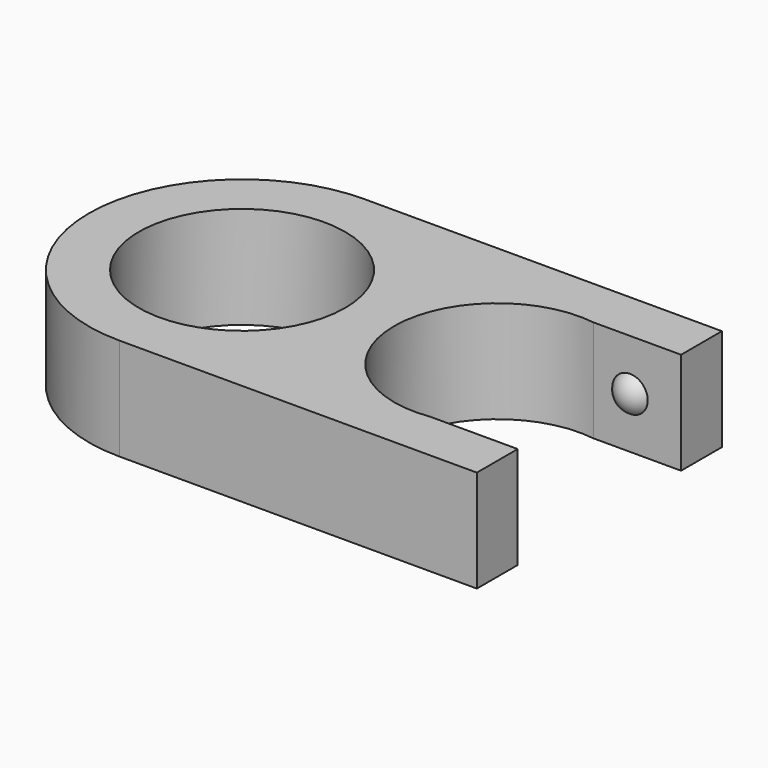
from build123d import *

# Parameters (mm, degrees)
CYLINDER002_R     = 10.1
CYLINDER002_DEPTH = 10
BOX001_W          = 10
BOX001_H          = 20
BOX001_DEPTH      = 10
CYLINDER001_R     = 10.1
CYLINDER001_DEPTH = 10
BOX_W             = 35
BOX_H             = 30
BOX_DEPTH         = 10
CYLINDER_R        = 15
CYLINDER_DEPTH    = 10


with BuildPart() as sphere:
    # Sphere → Sphere (revolve)
    with BuildSketch(Plane(origin=(30, 11, 5), x_dir=(1, 0, 0), z_dir=(0, -1, 0))):
        with BuildLine():
            ThreePointArc((0, -2), (2, 0), (0, 2))
            Line((0, 2), (0, -2))
        make_face()
    revolve(axis=Axis((30, 11, 5), (0, 0, 1)))


with BuildPart() as cylinder002:
    # Cylinder002 → Cylinder002 (new body)
    with BuildSketch(Plane(origin=(25, 0, 0), x_dir=(1, 0, 0), z_dir=(0, 0, 1))):
        Circle(CYLINDER002_R)
    extrude(amount=CYLINDER002_DEPTH)


with BuildPart() as cube001:
    # Box001 → Box001 (new body)
    with BuildSketch(Plane(origin=(25, -10, 0), x_dir=(1, 0, 0), z_dir=(0, 0, 1))):
        with Locations((5, 10)):
            Rectangle(BOX001_W, BOX001_H)
    extrude(amount=BOX001_DEPTH)


with BuildPart() as negative_fusion:
    # Cylinder001 → Cylinder001 (new body)
    with BuildSketch(Plane.XY):
        Circle(CYLINDER001_R)
    extrude(amount=CYLINDER001_DEPTH)

    # Fusion001: union Cylinder002, Cube001
    add(cylinder002.part)
    add(cube001.part)


with BuildPart() as cube:
    # Box → Box (new body)
    with BuildSketch(Plane(origin=(0, -15, 0), x_dir=(1, 0, 0), z_dir=(0, 0, 1))):
        with Locations((17.5, 15)):
            Rectangle(BOX_W, BOX_H)
    extrude(amount=BOX_DEPTH)


with BuildPart() as cut:
    # Cylinder → Cylinder (new body)
    with BuildSketch(Plane.XY):
        Circle(CYLINDER_R)
    extrude(amount=CYLINDER_DEPTH)

    # Fusion: union Cube
    add(cube.part)

    # Cut: cut Negative Fusion
    add(negative_fusion.part, mode=Mode.SUBTRACT)


with BuildPart() as fusion002:
    # Sphere001 → Sphere001 (revolve)
    with BuildSketch(Plane(origin=(30, -11, 5), x_dir=(1, 0, 0), z_dir=(0, -1, 0))):
        with BuildLine():
            ThreePointArc((0, -2), (2, 0), (0, 2))
            Line((0, 2), (0, -2))
        make_face()
    revolve(axis=Axis((30, -11, 5), (0, 0, 1)))

    # Fusion002: union Sphere, Cut
    add(sphere.part)
    add(cut.part)


solid = fusion002.part
